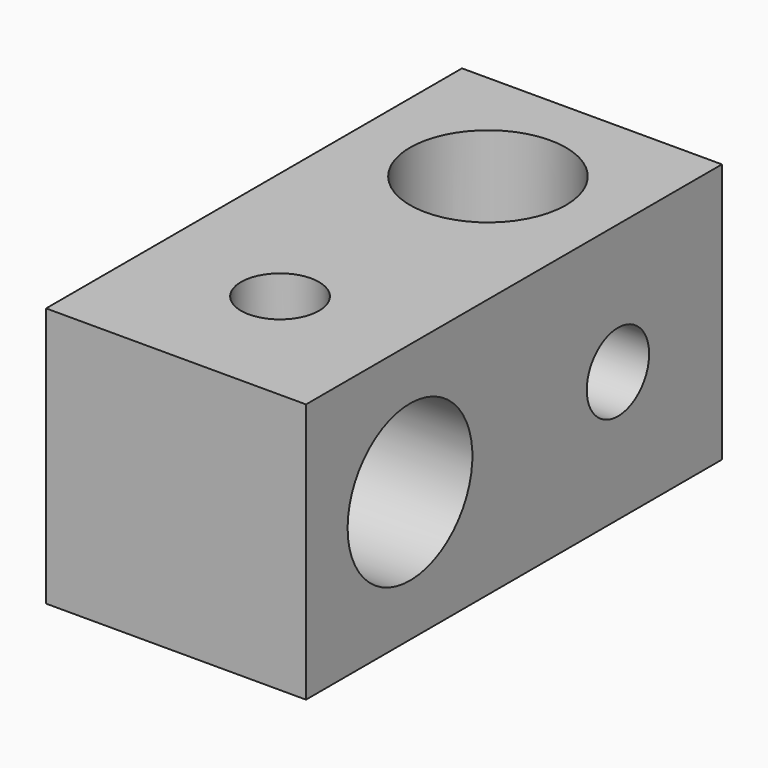
from build123d import *

# Parameters (mm, degrees)
F0_W     = 10
F0_H     = 20
F0_R     = 1.5
F0_R_2   = 3
F1_DEPTH = 10
F2_R     = 3
F2_R_2   = 1.5
F3_DEPTH = 25


with BuildPart() as f1:
    # F0 (on Top) → F1 (new body)
    with BuildSketch(Plane.XY):
        Rectangle(F0_W, F0_H)
        with Locations((0, -5)):
            Circle(F0_R, mode=Mode.SUBTRACT)
        with Locations((0, 5)):
            Circle(F0_R_2, mode=Mode.SUBTRACT)
    extrude(amount=F1_DEPTH)

    # F2 (on face) → F3 (cut)
    with BuildSketch(Plane(origin=(-5, 0, 0), x_dir=(0, -1, 0), z_dir=(-1, 0, 0))):
        with Locations((5, 5)):
            Circle(F2_R)
        with Locations((-5, 5)):
            Circle(F2_R_2)
    extrude(amount=-F3_DEPTH, mode=Mode.SUBTRACT)


solid = f1.part
